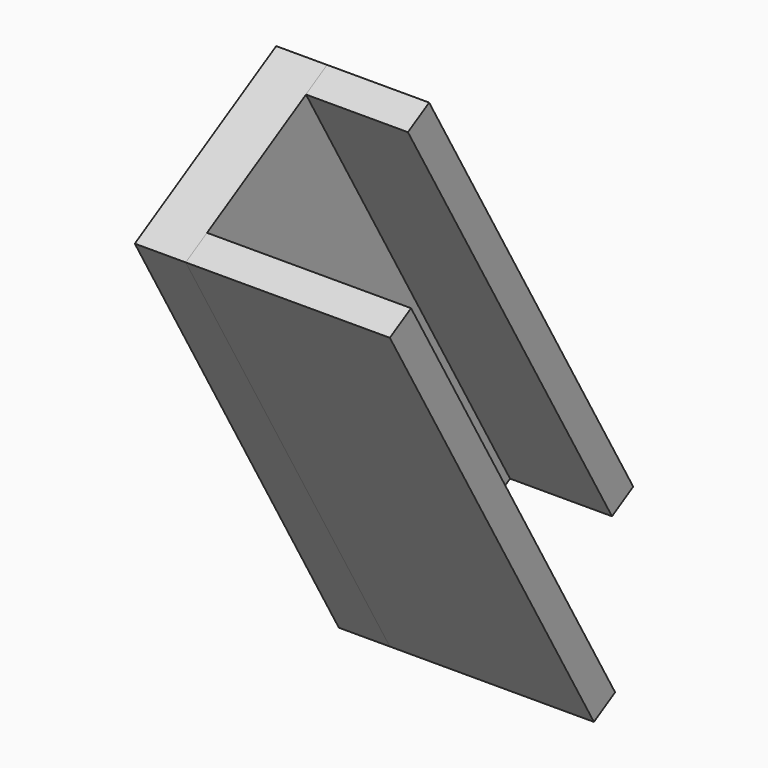
from build123d import *

# Parameters (mm, degrees)
SKETCH063_W             = 50
SKETCH063_H             = 20
PAD062_DEPTH            = 5
SKETCH064_W             = 50
SKETCH064_H             = 3
PAD063_DEPTH            = 20
SKETCH065_W             = 50
SKETCH065_H             = 10
PAD064_DEPTH            = 3
BODY045_ROLL_ANGLE      = 90
BODY045_PITCH_ANGLE     = 60
BODY045_PLACEMENT_ANGLE = 90


with BuildPart() as part:
    # Sketch063 → Pad062 (new body)
    with BuildSketch(Plane.XY):
        with Locations((184.845276, -123.914059)):
            Rectangle(SKETCH063_W, SKETCH063_H)
    extrude(amount=PAD062_DEPTH)

    # Sketch064 (on Face6 of Pad062) → Pad063 (join)
    with BuildSketch(Plane.XY.offset(5)):
        with Locations((184.83606, -132.417099)):
            Rectangle(SKETCH064_W, SKETCH064_H)
    extrude(amount=PAD063_DEPTH)

    # Sketch065 (on Face7 of Pad063) → Pad064 (join)
    with BuildSketch(Plane(origin=(0, -113.914059, 0), x_dir=(-1, 0, 0), z_dir=(0, 1, 0))):
        with Locations((-184.841869, 9.989668)):
            Rectangle(SKETCH065_W, SKETCH065_H)
    extrude(amount=-PAD064_DEPTH)


with BuildPart() as part_1:
    # Body045 roll: moved
    add(part.part.rotate(Axis((0, 0, 0), (1, 0, 0)), BODY045_ROLL_ANGLE))


with BuildPart() as part_2:
    # Body045 pitch: moved
    add(part_1.part.rotate(Axis((0, 0, 0), (0, 1, 0)), BODY045_PITCH_ANGLE))


with BuildPart() as part_3:
    # Body045 placement: moved
    add(part_2.part.moved(Location((-123, 31.390183, 363.451047))).rotate(Axis((-123, 31.390183, 363.451047), (0, 0, 1)), BODY045_PLACEMENT_ANGLE))


solid = part_3.part
